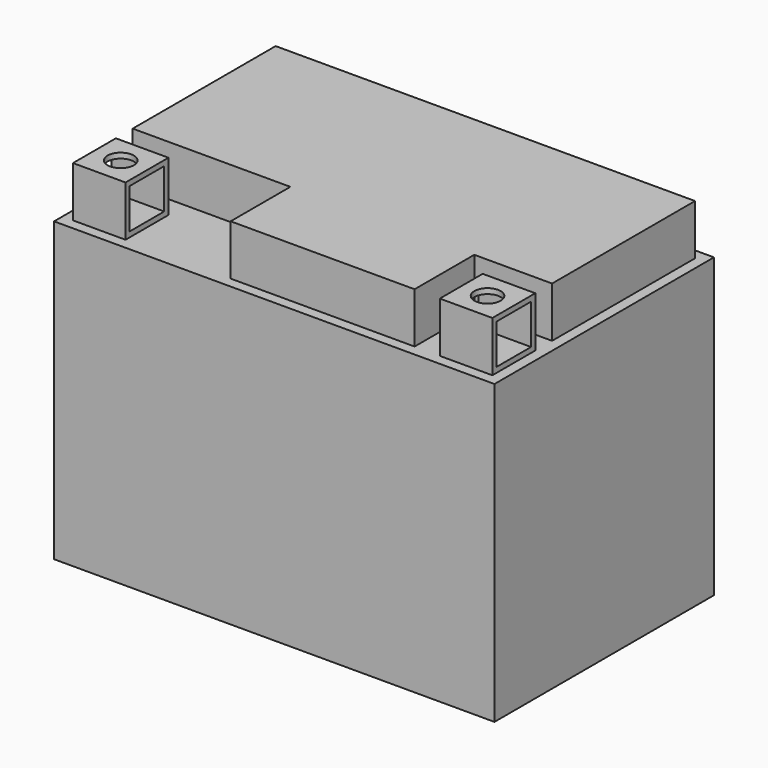
from build123d import *

# Parameters (mm, degrees)
F0_W      = 106.426
F0_H      = 66.294
F1_DEPTH  = 35.941
F2_W      = 12.7
F2_H      = 12.954
F3_DEPTH  = 12.192
F4_W      = 10.414
F4_H      = 9.652
F5_DEPTH  = 12.7
F6_W      = 10.414
F6_H      = 9.652
F7_DEPTH  = 12.7
F8_R      = 3.175
F9_DEPTH  = 1.27
F10_R     = 3.175
F11_DEPTH = 1.27


with BuildPart() as f1:
    # F0 (on Top) → F1 (new body, symmetric)
    with BuildSketch(Plane.XY):
        Rectangle(F0_W, F0_H)
    extrude(amount=F1_DEPTH, both=True)

    # F2 (on face) → F3 (join)
    with BuildSketch(Plane.XY.offset(35.941)):
        Polygon((50.673, 30.607), (-50.673, 30.607), (-50.673, -12.573), (-12.573, -12.573), (-12.573, -30.607), (31.877, -30.607), (31.877, -12.573), (50.673, -12.573), align=None)
        with Locations((-44.323, -24.13)):
            Rectangle(F2_W, F2_H)
        with Locations((44.323, -24.13)):
            Rectangle(F2_W, F2_H)
    extrude(amount=F3_DEPTH)

    # F4 (on face) → F5 (cut)
    with BuildSketch(Plane(origin=(-50.673, 0, 0), x_dir=(0, -1, 0), z_dir=(-1, 0, 0))):
        with Locations((24.13, 42.037)):
            Rectangle(F4_W, F4_H)
    extrude(amount=-F5_DEPTH, mode=Mode.SUBTRACT)

    # F6 (on face) → F7 (cut)
    with BuildSketch(Plane.YZ.offset(50.673)):
        with Locations((-24.13, 42.037)):
            Rectangle(F6_W, F6_H)
    extrude(amount=-F7_DEPTH, mode=Mode.SUBTRACT)

    # F8 (on face) → F9 (cut)
    with BuildSketch(Plane.XY.offset(48.133)):
        with Locations((-44.323, -24.13)):
            Circle(F8_R)
    extrude(amount=-F9_DEPTH, mode=Mode.SUBTRACT)

    # F10 (on face) → F11 (cut)
    with BuildSketch(Plane.XY.offset(48.133)):
        with Locations((44.323, -24.13)):
            Circle(F10_R)
    extrude(amount=-F11_DEPTH, mode=Mode.SUBTRACT)


solid = f1.part
